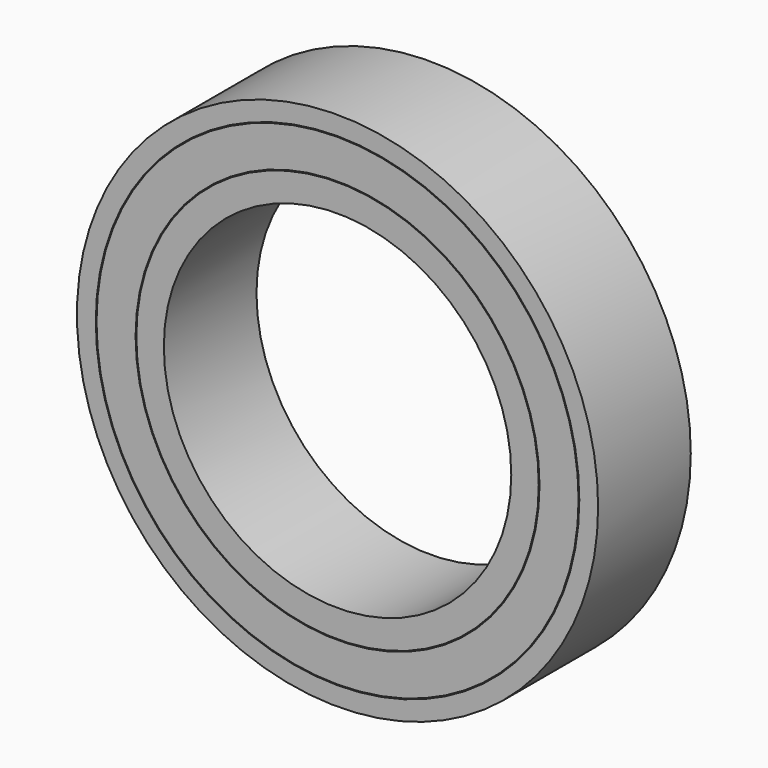
from build123d import *

# Parameters (mm, degrees)
F0_R     = 9
F0_R_2   = 8.35
F1_DEPTH = 2
F0_R_3   = 6.95
F0_R_4   = 6
F2_DEPTH = 2
F3_R     = 8.3246
F3_R_2   = 6.9754
F4_DEPTH = 2


with BuildPart() as f1:
    # F0 (on Front) → F1 (new body, symmetric)
    with BuildSketch(Plane.XZ):
        Circle(F0_R)
        Circle(F0_R_2, mode=Mode.SUBTRACT)
    extrude(amount=F1_DEPTH, both=True)


with BuildPart() as f2:
    # F0 (on Front) → F2 (new body, symmetric)
    with BuildSketch(Plane.XZ):
        Circle(F0_R_3)
        Circle(F0_R_4, mode=Mode.SUBTRACT)
    extrude(amount=F2_DEPTH, both=True)


with BuildPart() as f4:
    # F3 (on Front) → F4 (new body, symmetric)
    with BuildSketch(Plane.XZ):
        Circle(F3_R)
        Circle(F3_R_2, mode=Mode.SUBTRACT)
    extrude(amount=F4_DEPTH, both=True)


solid = Compound([f1.part, f2.part, f4.part])
